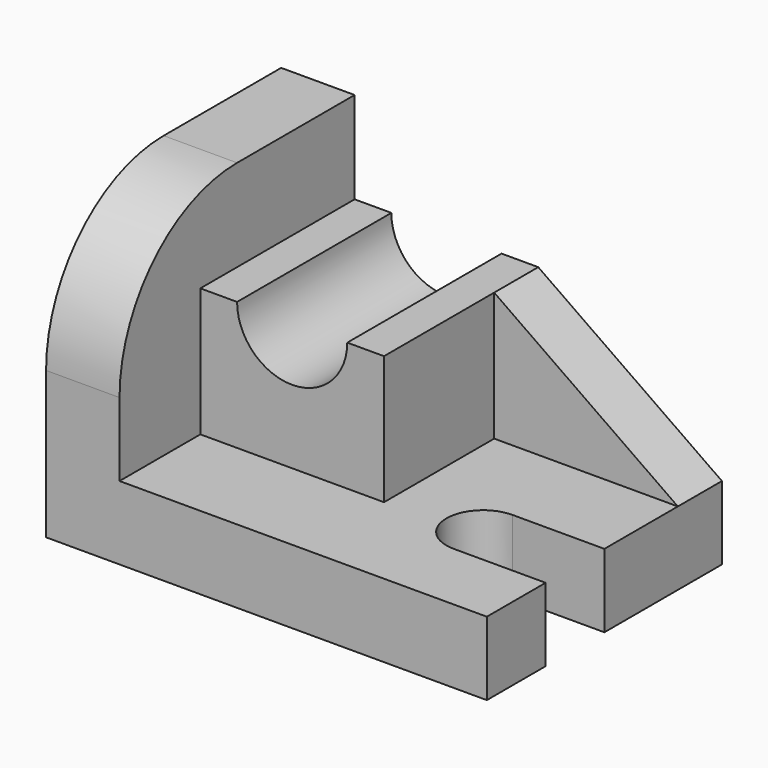
from build123d import *

# Parameters (mm, degrees)
F0_W      = 16
F0_H      = 48
F1_DEPTH  = 32
F2_R      = 32
F3_W      = 40
F3_H      = 28
F4_DEPTH  = 42
F6_DEPTH  = 64.001
F8_DEPTH  = 12
F10_DEPTH = 25


with BuildPart() as f1:
    # F0 (on Front) → F1 (new body, symmetric)
    with BuildSketch(Plane.XZ):
        Polygon((-48, -8), (48, -8), (48, 8), (-32, 8), (-48, 8), align=None)
        with Locations((-40, 32)):
            Rectangle(F0_W, F0_H)
    extrude(amount=F1_DEPTH, both=True)

    # F2
    f2_edges = [f1.edges().sort_by_distance(p)[0] for p in [
        (-40, -32, 56),
    ]]
    fillet(f2_edges, radius=F2_R)

    # F3 (on face) → F4 (join)
    with BuildSketch(Plane(origin=(0, 32, 0), x_dir=(-1, 0, 0), z_dir=(0, 1, 0))):
        with Locations((12, 22)):
            Rectangle(F3_W, F3_H)
    extrude(amount=-F4_DEPTH)

    # F5 (on face) → F6 (cut, through all)
    with BuildSketch(Plane(origin=(0, 32, 0), x_dir=(-1, 0, 0), z_dir=(0, 1, 0))):
        with BuildLine():
            Line((24, 36), (0, 36))
            ThreePointArc((0, 36), (12, 24), (24, 36))
        make_face()
    extrude(amount=-F6_DEPTH, mode=Mode.SUBTRACT)

    # F7 (on face) → F8 (join)
    with BuildSketch(Plane(origin=(0, 32, 0), x_dir=(-1, 0, 0), z_dir=(0, 1, 0))):
        Polygon((-8, 8), (-8, 36), (-48, 8), align=None)
    extrude(amount=-F8_DEPTH)

    # F9 (on face) → F10 (cut)
    with BuildSketch(Plane.XY.offset(8)):
        with BuildLine():
            Line((48, -16), (48, 0))
            Line((48, 0), (28, 0))
            ThreePointArc((28, 0), (33.6568542495, -2.3431457505), (36, -8))
            ThreePointArc((36, -8), (33.6568542495, -13.6568542495), (28, -16))
            Line((28, -16), (48, -16))
        make_face()
        with BuildLine():
            ThreePointArc((36, -8), (33.6568542495, -2.3431457505), (28, 0))
            ThreePointArc((28, 0), (20, -8), (28, -16))
            ThreePointArc((28, -16), (33.6568542495, -13.6568542495), (36, -8))
        make_face()
    extrude(amount=-F10_DEPTH, mode=Mode.SUBTRACT)


solid = f1.part
